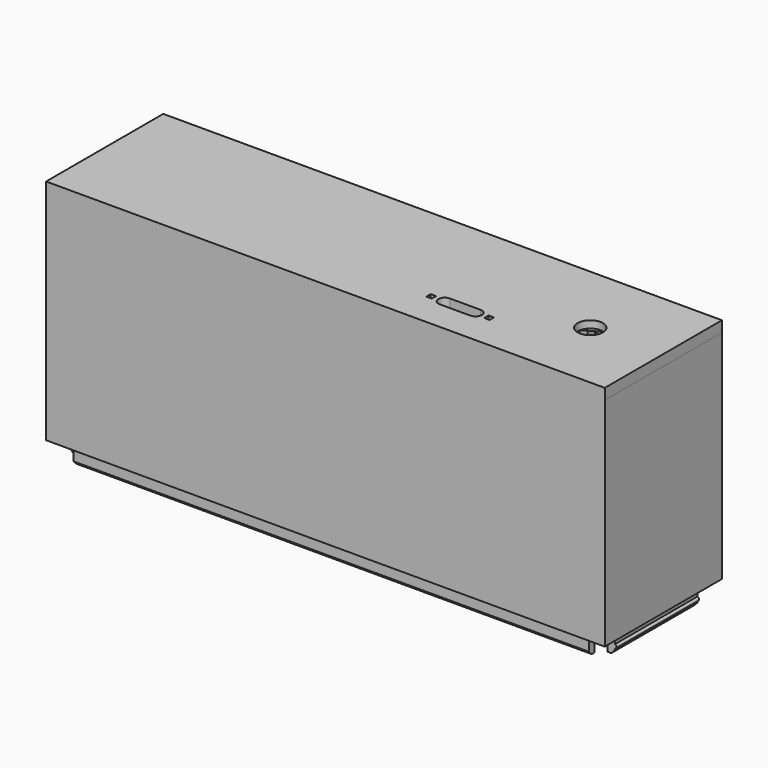
from build123d import *

# Parameters (mm, degrees)
SKETCH021_W     = 150.5
SKETCH021_H     = 36.5
SKETCH021_W_2   = 146.5
SKETCH021_H_2   = 32.5
PAD010_DEPTH    = 5
SKETCH022_W     = 154.5
SKETCH022_H     = 40.5
SKETCH022_W_2   = 146.5
SKETCH022_H_2   = 32.5
PAD011_DEPTH    = 60
SKETCH026_R     = 0.5
PAD013_DEPTH    = 36.5
SKETCH027_W     = 6
SKETCH027_H     = 6
POCKET008_DEPTH = 15
CHAMFER002_SIZE = 1
SKETCH028_W     = 154.5
SKETCH028_H     = 40.5
PAD014_DEPTH    = 3
SKETCH029_R     = 3.5
POCKET009_DEPTH = 5
POCKET010_DEPTH = 1
SKETCH031_W     = 1.5
SKETCH031_H     = 1.5
POCKET011_DEPTH = 5
SKETCH032_R     = 1.45
SKETCH032_R_2   = 1.25
PAD016_DEPTH    = 7
POCKET012_DEPTH = 5
SKETCH037_R     = 22
POCKET013_DEPTH = 1.5
SKETCH038_R     = 23
SKETCH038_R_2   = 22
PAD017_DEPTH    = 1


with BuildPart() as part:
    # Sketch021 (on DatumPlane) → Pad010 (new body)
    with BuildSketch(Plane.XY.offset(21.399978)):
        with Locations((1.87496, 2.00006)):
            Rectangle(SKETCH021_W, SKETCH021_H)
        with Locations((1.87496, 2.00006)):
            Rectangle(SKETCH021_W_2, SKETCH021_H_2, mode=Mode.SUBTRACT)
    extrude(amount=-PAD010_DEPTH)

    # Sketch022 (on DatumPlane) → Pad011 (join)
    with BuildSketch(Plane.XY.offset(21.399978)):
        with Locations((1.87496, 2.00006)):
            Rectangle(SKETCH022_W, SKETCH022_H)
        with Locations((1.87496, 2.00006)):
            Rectangle(SKETCH022_W_2, SKETCH022_H_2, mode=Mode.SUBTRACT)
    extrude(amount=PAD011_DEPTH)

    # Sketch026 (on Face2 of Pad011) → Pad013 (join)
    with BuildSketch(Plane(origin=(0, 20.25006, 21.399978), x_dir=(-1, 0, 0), z_dir=(0, 1, 0))):
        with Locations((73.375041, -3)):
            Circle(SKETCH026_R)
        with Locations((-77.124959, -3)):
            Circle(SKETCH026_R)
    extrude(amount=-PAD013_DEPTH)

    # Sketch027 (on Face6 of Pad013) → Pocket008 (cut)
    with BuildSketch(Plane(origin=(0, 0, 21.399978), x_dir=(1, 0, 0), z_dir=(0, 0, -1))):
        with Locations((-72.375041, 15.24994)):
            Rectangle(SKETCH027_W, SKETCH027_H)
        with Locations((-72.375041, -19.25006)):
            Rectangle(SKETCH027_W, SKETCH027_H)
        with Locations((76.124959, 15.24994)):
            Rectangle(SKETCH027_W, SKETCH027_H)
        with Locations((76.124959, -19.25006)):
            Rectangle(SKETCH027_W, SKETCH027_H)
    extrude(amount=POCKET008_DEPTH, mode=Mode.SUBTRACT)

    # Chamfer002
    chamfer002_edges = [part.edges().sort_by_distance(p)[0] for p in [
        (1.87496, 20.25006, 16.399978),
        (-73.37504, 2.00006, 16.399978),
        (1.87496, -16.24994, 16.399978),
        (77.12496, 2.00006, 16.399978),
    ]]
    chamfer(chamfer002_edges, length=CHAMFER002_SIZE)

    # Sketch028 (on Face11 of Chamfer002) → Pad014 (join)
    with BuildSketch(Plane.XY.offset(81.399978)):
        with Locations((1.874959, 2.00006)):
            Rectangle(SKETCH028_W, SKETCH028_H)
    extrude(amount=PAD014_DEPTH)

    # Sketch029 (on Face32 of Pad014) → Pocket009 (cut)
    with BuildSketch(Plane.XY.offset(84.399978)):
        with Locations((59.12496, 1.75006)):
            Circle(SKETCH029_R)
    extrude(amount=-POCKET009_DEPTH, mode=Mode.SUBTRACT)

    # Sketch030 (on Face11 of Pocket009) → Pocket010 (cut)
    with BuildSketch(Plane(origin=(0, 0, 81.399978), x_dir=(1, 0, 0), z_dir=(0, 0, -1))):
        Polygon((59.12496, 3.157417), (54.87496, 0.703679), (54.87496, -4.203799), (59.12496, -6.657537), (63.37496, -4.203799), (63.37496, 0.703679), align=None)
    extrude(amount=-POCKET010_DEPTH, mode=Mode.SUBTRACT)

    # Sketch031 (on Face35 of Pocket010) → Pocket011 (cut)
    with BuildSketch(Plane.XY.offset(84.399978)):
        with BuildLine():
            ThreePointArc((26.87496, -6.49994), (25.12496, -8.24994), (26.87496, -9.99994))
            Line((26.87496, -9.99994), (35.37496, -9.99994))
            ThreePointArc((35.37496, -9.99994), (37.12496, -8.24994), (35.37496, -6.49994))
            Line((26.87496, -6.49994), (35.37496, -6.49994))
        make_face()
        with Locations((23.12496, -8.24994)):
            Rectangle(SKETCH031_W, SKETCH031_H)
        with Locations((39.12496, -8.24994)):
            Rectangle(SKETCH031_W, SKETCH031_H)
    extrude(amount=-POCKET011_DEPTH, mode=Mode.SUBTRACT)

    # Sketch032 (on Face13 of Pocket011) → Pad016 (join)
    with BuildSketch(Plane(origin=(0, 22.25006, 21.399978), x_dir=(-1, 0, 0), z_dir=(0, 1, 0))):
        with Locations((18.25004, 50)):
            Circle(SKETCH032_R)
        with Locations((55.25004, 50)):
            Circle(SKETCH032_R)
        with Locations((55.25004, 13)):
            Circle(SKETCH032_R)
        with Locations((18.25004, 13)):
            Circle(SKETCH032_R)
        with Locations((-58.99996, 50)):
            Circle(SKETCH032_R_2)
        with Locations((-21.99996, 50)):
            Circle(SKETCH032_R_2)
        with Locations((-21.99996, 13)):
            Circle(SKETCH032_R_2)
        with Locations((-58.99996, 13)):
            Circle(SKETCH032_R_2)
    extrude(amount=-PAD016_DEPTH)

    # Sketch036 (on Face71 of Pad016) → Pocket012 (cut)
    with BuildSketch(Plane(origin=(0, 22.25006, 21.399978), x_dir=(-1, 0, 0), z_dir=(0, 1, 0))):
        with BuildLine():
            ThreePointArc((-57.49996, 40.217798), (-58.49996, 41.217798), (-59.49996, 40.217798))
            Line((-59.49996, 40.217798), (-59.49996, 22.782202))
            ThreePointArc((-59.49996, 22.782202), (-58.49996, 21.782202), (-57.49996, 22.782202))
            Line((-57.49996, 40.217798), (-57.49996, 22.782202))
        make_face()
        with BuildLine():
            ThreePointArc((-52.99996, 46.256355), (-53.99996, 47.256355), (-54.99996, 46.256355))
            Line((-54.99996, 46.256355), (-54.99996, 16.743645))
            ThreePointArc((-54.99996, 16.743645), (-53.99996, 15.743645), (-52.99996, 16.743645))
            Line((-52.99996, 46.256355), (-52.99996, 16.743645))
        make_face()
        with BuildLine():
            ThreePointArc((-48.49996, 49.360571), (-49.49996, 50.360571), (-50.49996, 49.360571))
            Line((-50.49996, 49.360571), (-50.49996, 13.639429))
            ThreePointArc((-50.49996, 13.639429), (-49.49996, 12.639429), (-48.49996, 13.639429))
            Line((-48.49996, 49.360571), (-48.49996, 13.639429))
        make_face()
        with BuildLine():
            ThreePointArc((-30.49996, 49.360571), (-31.49996, 50.360571), (-32.49996, 49.360571))
            Line((-32.49996, 49.360571), (-32.49996, 13.639429))
            ThreePointArc((-32.49996, 13.639429), (-31.49996, 12.639429), (-30.49996, 13.639429))
            Line((-30.49996, 49.360571), (-30.49996, 13.639429))
        make_face()
        with BuildLine():
            ThreePointArc((-34.99996, 50.987175), (-35.99996, 51.987175), (-36.99996, 50.987175))
            Line((-36.99996, 50.987175), (-36.99996, 12.012825))
            ThreePointArc((-36.99996, 12.012825), (-35.99996, 11.012825), (-34.99996, 12.012825))
            Line((-34.99996, 50.987175), (-34.99996, 12.012825))
        make_face()
        with BuildLine():
            ThreePointArc((-25.99996, 46.256355), (-26.99996, 47.256355), (-27.99996, 46.256355))
            Line((-27.99996, 46.256355), (-27.99996, 16.743645))
            ThreePointArc((-27.99996, 16.743645), (-26.99996, 15.743645), (-25.99996, 16.743645))
            Line((-25.99996, 46.256355), (-25.99996, 16.743645))
        make_face()
        with BuildLine():
            ThreePointArc((-43.99996, 50.987175), (-44.99996, 51.987175), (-45.99996, 50.987175))
            Line((-45.99996, 50.987175), (-45.99996, 12.012825))
            ThreePointArc((-45.99996, 12.012825), (-44.99996, 11.012825), (-43.99996, 12.012825))
            Line((-43.99996, 50.987175), (-43.99996, 12.012825))
        make_face()
        with BuildLine():
            ThreePointArc((-39.49996, 51.5), (-40.49996, 52.5), (-41.49996, 51.5))
            Line((-41.49996, 51.5), (-41.49996, 11.5))
            ThreePointArc((-41.49996, 11.5), (-40.49996, 10.5), (-39.49996, 11.5))
            Line((-39.49996, 51.5), (-39.49996, 11.5))
        make_face()
        with BuildLine():
            ThreePointArc((-21.49996, 40.217798), (-22.49996, 41.217798), (-23.49996, 40.217798))
            Line((-23.49996, 40.217798), (-23.49996, 22.782202))
            ThreePointArc((-23.49996, 22.782202), (-22.49996, 21.782202), (-21.49996, 22.782202))
            Line((-21.49996, 40.217798), (-21.49996, 22.782202))
        make_face()
        with BuildLine():
            ThreePointArc((19.75004, 40.217798), (18.75004, 41.217798), (17.75004, 40.217798))
            Line((17.75004, 40.217798), (17.75004, 22.782202))
            ThreePointArc((17.75004, 22.782202), (18.75004, 21.782202), (19.75004, 22.782202))
            Line((19.75004, 40.217798), (19.75004, 22.782202))
        make_face()
        with BuildLine():
            ThreePointArc((24.25004, 46.256355), (23.25004, 47.256355), (22.25004, 46.256355))
            Line((22.25004, 46.256355), (22.25004, 16.743645))
            ThreePointArc((22.25004, 16.743645), (23.25004, 15.743645), (24.25004, 16.743645))
            Line((24.25004, 46.256355), (24.25004, 16.743645))
        make_face()
        with BuildLine():
            ThreePointArc((33.25004, 50.987175), (32.25004, 51.987175), (31.25004, 50.987175))
            Line((31.25004, 50.987175), (31.25004, 12.012825))
            ThreePointArc((31.25004, 12.012825), (32.25004, 11.012825), (33.25004, 12.012825))
            Line((33.25004, 50.987175), (33.25004, 12.012825))
        make_face()
        with BuildLine():
            ThreePointArc((42.25004, 50.987175), (41.25004, 51.987175), (40.25004, 50.987175))
            Line((40.25004, 50.987175), (40.25004, 12.012825))
            ThreePointArc((40.25004, 12.012825), (41.25004, 11.012825), (42.25004, 12.012825))
            Line((42.25004, 50.987175), (42.25004, 12.012825))
        make_face()
        with BuildLine():
            ThreePointArc((28.75004, 49.360571), (27.75004, 50.360571), (26.75004, 49.360571))
            Line((26.75004, 49.360571), (26.75004, 13.639429))
            ThreePointArc((26.75004, 13.639429), (27.75004, 12.639429), (28.75004, 13.639429))
            Line((28.75004, 49.360571), (28.75004, 13.639429))
        make_face()
        with BuildLine():
            ThreePointArc((37.75004, 51.5), (36.75004, 52.5), (35.75004, 51.5))
            Line((35.75004, 51.5), (35.75004, 11.5))
            ThreePointArc((35.75004, 11.5), (36.75004, 10.5), (37.75004, 11.5))
            Line((37.75004, 51.5), (37.75004, 11.5))
        make_face()
        with BuildLine():
            ThreePointArc((46.75004, 49.360571), (45.75004, 50.360571), (44.75004, 49.360571))
            Line((44.75004, 49.360571), (44.75004, 13.639429))
            ThreePointArc((44.75004, 13.639429), (45.75004, 12.639429), (46.75004, 13.639429))
            Line((46.75004, 49.360571), (46.75004, 13.639429))
        make_face()
        with BuildLine():
            ThreePointArc((51.25004, 46.256355), (50.25004, 47.256355), (49.25004, 46.256355))
            Line((49.25004, 46.256355), (49.25004, 16.743645))
            ThreePointArc((49.25004, 16.743645), (50.25004, 15.743645), (51.25004, 16.743645))
            Line((51.25004, 46.256355), (51.25004, 16.743645))
        make_face()
        with BuildLine():
            ThreePointArc((55.75004, 40.217798), (54.75004, 41.217798), (53.75004, 40.217798))
            Line((53.75004, 40.217798), (53.75004, 22.782202))
            ThreePointArc((53.75004, 22.782202), (54.75004, 21.782202), (55.75004, 22.782202))
            Line((55.75004, 40.217798), (55.75004, 22.782202))
        make_face()
    extrude(amount=-POCKET012_DEPTH, mode=Mode.SUBTRACT)

    # Sketch037 (on Face10 of Pocket012) → Pocket013 (cut)
    with BuildSketch(Plane(origin=(0, 18.25006, 21.399978), x_dir=(1, 0, 0), z_dir=(0, -1, 0))):
        with Locations((-36.75004, 31.5)):
            Circle(SKETCH037_R)
        with Locations((40.49996, 31.5)):
            Circle(SKETCH037_R)
    extrude(amount=-POCKET013_DEPTH, mode=Mode.SUBTRACT)

    # Sketch038 (on Face10 of Pocket013) → Pad017 (join)
    with BuildSketch(Plane(origin=(0, 18.25006, 21.399978), x_dir=(1, 0, 0), z_dir=(0, -1, 0))):
        with Locations((-36.75004, 31.5)):
            Circle(SKETCH038_R)
        with Locations((-36.75004, 31.5)):
            Circle(SKETCH038_R_2, mode=Mode.SUBTRACT)
        with Locations((40.49996, 31.5)):
            Circle(SKETCH038_R)
        with Locations((40.49996, 31.5)):
            Circle(SKETCH038_R_2, mode=Mode.SUBTRACT)
    extrude(amount=PAD017_DEPTH)


solid = part.part
